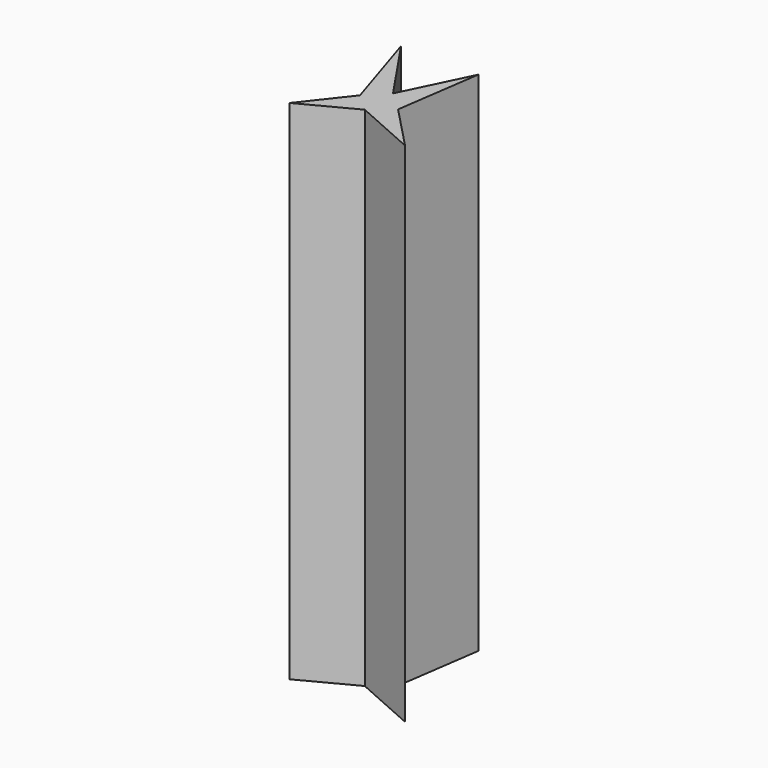
from build123d import *

# Parameters (mm, degrees)
F1_DEPTH = 200


with BuildPart() as f1:
    # F0 (on Top) → F1 (new body, symmetric)
    with BuildSketch(Plane.XY):
        Polygon((25.35836, 52.31984), (0, 0), (-35.560001, 52.31984), (-14.282295, -14.719509), (-41.680984, -49.696557), (0, -27.835902), (49.259342, -49.696557), (15.739674, -14.719509), align=None)
    extrude(amount=F1_DEPTH, both=True)


solid = f1.part
